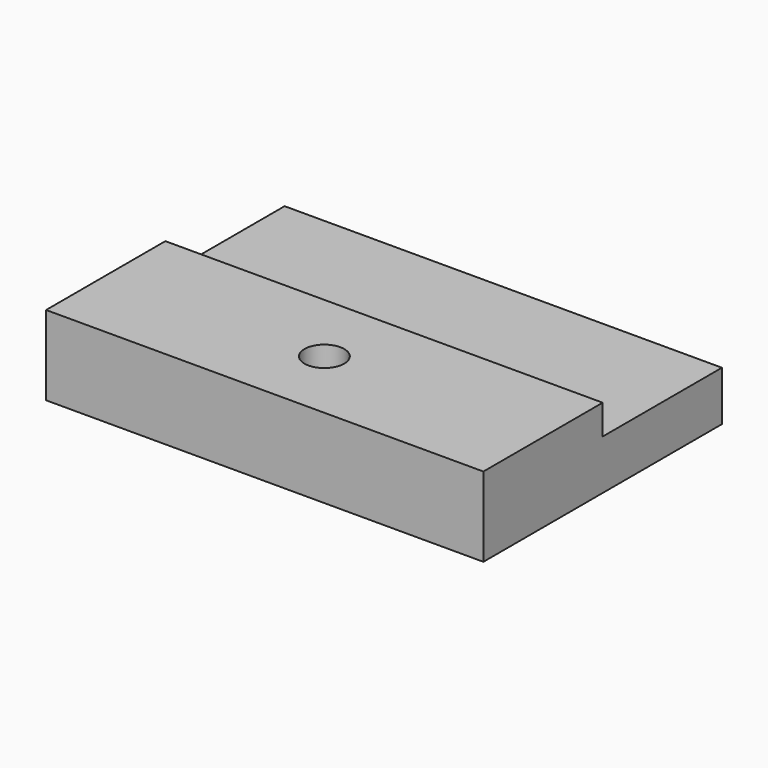
from build123d import *

# Parameters (mm, degrees)
CYLINDER007_R             = 4.25
CYLINDER007_DEPTH         = 10
CYLINDER008_R             = 2
CYLINDER008_DEPTH         = 10
FUSION008_PLACEMENT_ANGLE = 180
CYLINDER009_R             = 4.25
CYLINDER009_DEPTH         = 8
CYLINDER001_R             = 4.25
CYLINDER001_DEPTH         = 10
CYLINDER_R                = 2
CYLINDER_DEPTH            = 10
BOX001_W                  = 44
BOX001_H                  = 15
BOX001_DEPTH              = 8
BOX_W                     = 44
BOX_H                     = 30
BOX_DEPTH                 = 5
CHAMFER_SIZE              = 2.2
CHAMFER003_SIZE           = 2.2


with BuildPart() as cylinder007:
    # Cylinder007 → Cylinder007 (new body)
    with BuildSketch(Plane(origin=(22, 7.5, 7), x_dir=(1, 0, 0), z_dir=(0, 0, 1))):
        Circle(CYLINDER007_R)
    extrude(amount=CYLINDER007_DEPTH)


with BuildPart() as fusion008:
    # Cylinder008 → Cylinder008 (new body)
    with BuildSketch(Plane(origin=(22, 7.5, 0), x_dir=(1, 0, 0), z_dir=(0, 0, 1))):
        Circle(CYLINDER008_R)
    extrude(amount=CYLINDER008_DEPTH)

    # Fusion008: union Cylinder007
    add(cylinder007.part)


with BuildPart() as fusion008_1:
    # Fusion008 placement: moved
    add(fusion008.part.moved(Location((0, 15, 8))).rotate(Axis((0, 15, 8), (1, 0, 0)), FUSION008_PLACEMENT_ANGLE))


with BuildPart() as cylinder009:
    # Cylinder009 → Cylinder009 (new body)
    with BuildSketch(Plane(origin=(22, 7.5, 0), x_dir=(1, 0, 0), z_dir=(0, 0, 1))):
        Circle(CYLINDER009_R)
    extrude(amount=CYLINDER009_DEPTH)


with BuildPart() as cylinder001:
    # Cylinder001 → Cylinder001 (new body)
    with BuildSketch(Plane(origin=(22, 7.5, 7), x_dir=(1, 0, 0), z_dir=(0, 0, 1))):
        Circle(CYLINDER001_R)
    extrude(amount=CYLINDER001_DEPTH)


with BuildPart() as fusion001:
    # Cylinder → Cylinder (new body)
    with BuildSketch(Plane(origin=(22, 7.5, 0), x_dir=(1, 0, 0), z_dir=(0, 0, 1))):
        Circle(CYLINDER_R)
    extrude(amount=CYLINDER_DEPTH)

    # Fusion001: union Cylinder001
    add(cylinder001.part)


with BuildPart() as cube001:
    # Box001 → Box001 (new body)
    with BuildSketch(Plane.XY):
        with Locations((22, 7.5)):
            Rectangle(BOX001_W, BOX001_H)
    extrude(amount=BOX001_DEPTH)


with BuildPart() as chamfer003:
    # Box → Box (new body)
    with BuildSketch(Plane.XY):
        with Locations((22, 15)):
            Rectangle(BOX_W, BOX_H)
    extrude(amount=BOX_DEPTH)

    # Fusion: union Cube001
    add(cube001.part)

    # Cut: cut Fusion001
    add(fusion001.part, mode=Mode.SUBTRACT)

    # Chamfer
    chamfer_edges = [chamfer003.edges().sort_by_distance(p)[0] for p in [
        (20, 7.5, 7),
    ]]
    chamfer(chamfer_edges, length=CHAMFER_SIZE)

    # Fusion009: union Cylinder009
    add(cylinder009.part)

    # Cut003: cut Fusion008
    add(fusion008_1.part, mode=Mode.SUBTRACT)

    # Chamfer003
    chamfer003_edges = [chamfer003.edges().sort_by_distance(p)[0] for p in [
        (20, 7.5, 1),
    ]]
    chamfer(chamfer003_edges, length=CHAMFER003_SIZE)


solid = chamfer003.part
